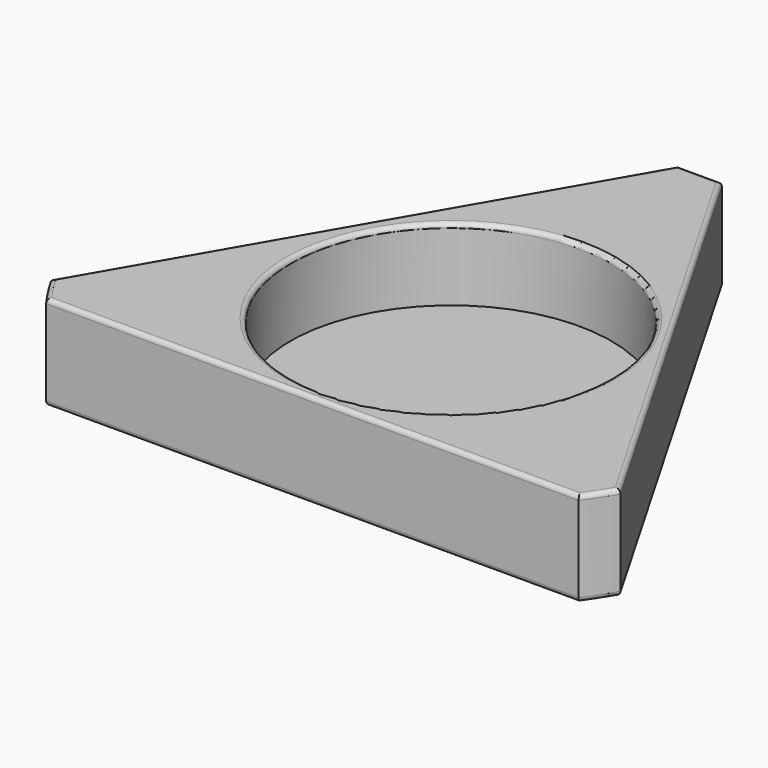
from build123d import *

# Parameters (mm, degrees)
F0_R     = 18.5674
F1_DEPTH = 10.922
F2_R     = 19.685
F3_DEPTH = 2.54
F4_SIZE  = 5.08
F5_R     = 0.508


with BuildPart() as f1:
    # F0 (on Top) → F1 (new body)
    with BuildSketch(Plane.XY):
        with BuildLine():
            Line((32.995568, -19.05), (0, 38.1))
            Line((0, 38.1), (-32.995568, -19.05))
            ThreePointArc((-32.995568, -19.05), (-31.954272, -20.749325), (-30.825541, -22.391874))
            Line((-30.825541, -22.391874), (30.825541, -22.391874))
            ThreePointArc((30.825541, -22.391874), (31.954272, -20.749325), (32.995568, -19.05))
        make_face()
        with Locations((0.09078, -2.456299)):
            Circle(F0_R, mode=Mode.SUBTRACT)
    extrude(amount=F1_DEPTH)

    # F2 (on Top) → F3 (join)
    with BuildSketch(Plane.XY):
        with Locations((0, -2.395251)):
            Circle(F2_R)
    extrude(amount=F3_DEPTH)

    # F4
    f4_edges = [f1.edges().sort_by_distance(p)[0] for p in [
        (0, 38.1, 5.461),
    ]]
    chamfer(f4_edges, length=F4_SIZE)

    # F5
    f5_edges = [f1.edges().sort_by_distance(p)[0] for p in [
        (17.767784, 7.325295, 10.922),
        (0, 33.700591, 10.922),
        (31.954272, -20.749325, 10.922),
        (-17.767784, 7.325295, 10.922),
        (0, -22.391874, 10.922),
        (-31.954272, -20.749325, 10.922),
        (-18.47662, -2.456299, 10.922),
        (17.767784, 7.325295, 0),
        (0, 33.700591, 0),
        (31.954272, -20.749325, 0),
        (-17.767784, 7.325295, 0),
        (0, -22.391874, 0),
        (-31.954272, -20.749325, 0),
    ]]
    fillet(f5_edges, radius=F5_R)


solid = f1.part
